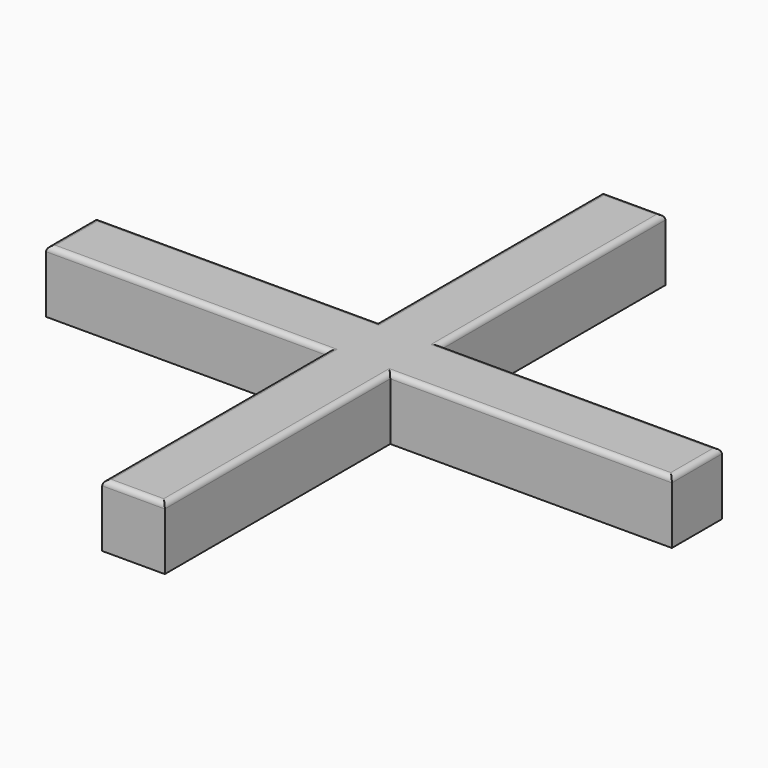
from build123d import *

# Parameters (mm, degrees)
F1_DEPTH = 60
F2_R     = 5


with BuildPart() as f1:
    # F0 (on Top) → F1 (new body)
    with BuildSketch(Plane.XY):
        Polygon((-30, 30.223638), (-300, 30.223638), (-300, -29.776362), (-30, -29.776362), (-30, -300), (30, -300), (30, -29.776362), (300, -29.776362), (300, 30.223638), (30, 30.223638), (30, 300), (-30, 300), align=None)
    extrude(amount=F1_DEPTH)

    # F2
    f2_edges = [f1.edges().sort_by_distance(p)[0] for p in [
        (165, 30.223638, 60),
        (30, 165.111819, 60),
        (0, 300, 60),
        (-30, 165.111819, 60),
        (-165, 30.223638, 60),
        (-300, 0.223638, 60),
        (-165, -29.776362, 60),
        (-30, -164.888181, 60),
        (0, -300, 60),
        (30, -164.888181, 60),
        (165, -29.776362, 60),
        (300, 0.223638, 60),
    ]]
    fillet(f2_edges, radius=F2_R)


solid = f1.part
